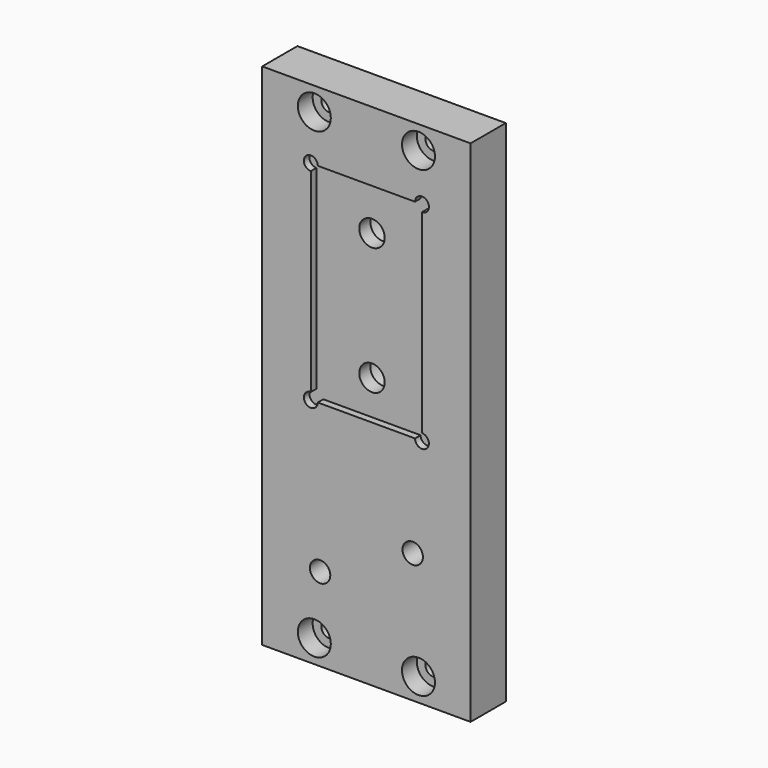
from build123d import *

# Parameters (mm, degrees)
F0_W           = 90
F0_H           = 220
F1_DEPTH       = 19
F3_D           = 6.8
F3_CBORE_D     = 14.25
F3_CBORE_DEPTH = 8
F5_DEPTH       = 3
F7_D           = 11
F7_CBORE_D     = 17.25
F7_CBORE_DEPTH = 10
F9_D           = 8.8
F9_CBORE_D     = 14.25
F9_CBORE_DEPTH = 8


with BuildPart() as f1:
    # F0 (on Front) → F1 (new body)
    with BuildSketch(Plane.XZ):
        with Locations((45, 110)):
            Rectangle(F0_W, F0_H)
    extrude(amount=F1_DEPTH)

    # F3 (through all)
    with Locations(Plane.XZ.offset(19)):
        with Locations((22.5, 210), (67.5, 210), (22.5, 10), (67.5, 10)):
            CounterBoreHole(F3_D / 2, F3_CBORE_D / 2, F3_CBORE_DEPTH)

    # F4 (on face) → F5 (cut)
    with BuildSketch(Plane.XZ.offset(19)):
        with BuildLine():
            ThreePointArc((24, 190), (18.8786796564, 192.1213203436), (21, 187))
            Line((21, 187), (21, 103))
            ThreePointArc((21, 103), (18.8786796564, 97.8786796564), (24, 100))
            Line((24, 100), (66, 100))
            ThreePointArc((66, 100), (71.1213203436, 97.8786796564), (69, 103))
            Line((69, 103), (69, 187))
            ThreePointArc((69, 187), (71.1213203436, 192.1213203436), (66, 190))
            Line((66, 190), (24, 190))
        make_face()
    extrude(amount=-F5_DEPTH, mode=Mode.SUBTRACT)

    # F7 (through all)
    with Locations(Plane(origin=(0, 0, 0), x_dir=(-1, 0, 0), z_dir=(0, 1, 0))):
        with Locations((-45, 170), (-45, 115)):
            CounterBoreHole(F7_D / 2, F7_CBORE_D / 2, F7_CBORE_DEPTH)

    # F9 (through all)
    with Locations(Plane(origin=(0, 0, 0), x_dir=(-1, 0, 0), z_dir=(0, 1, 0))):
        with Locations((-65, 56), (-25, 36)):
            CounterBoreHole(F9_D / 2, F9_CBORE_D / 2, F9_CBORE_DEPTH)


solid = f1.part
